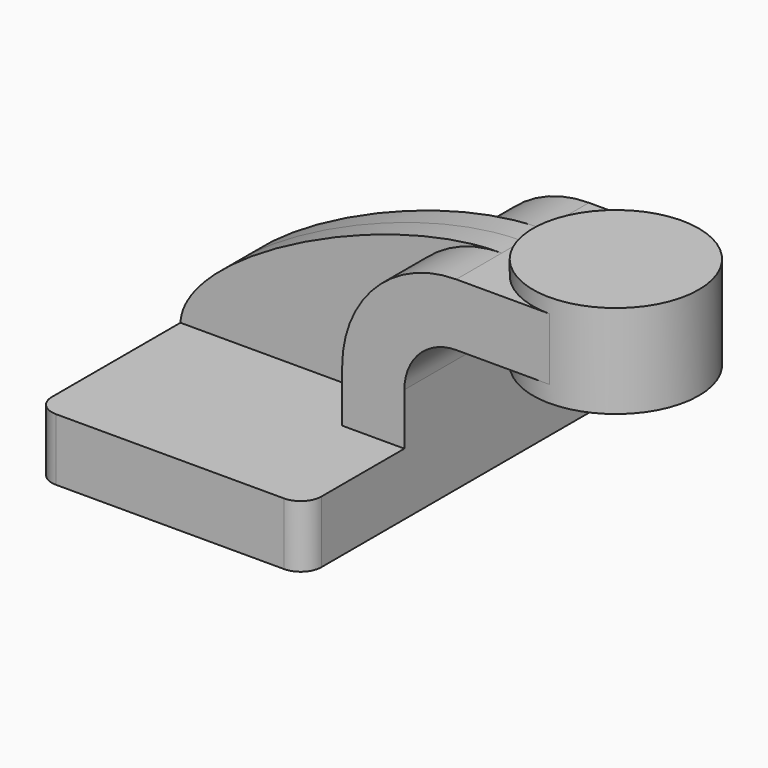
from build123d import *

# Parameters (mm, degrees)
F1_DEPTH = 63.5
F2_DEPTH = 25.4
F3_DEPTH = 7.9375
F0_W     = 25.4
F0_H     = 19.05
F4_DEPTH = 25.4
F6_R     = 6.35


with BuildPart() as f1:
    # F0 (on Front) → F1 (new body, symmetric)
    with BuildSketch(Plane.XZ):
        Polygon((-41.275, 9.525), (-41.275, -9.525), (41.275, -9.525), (41.275, 9.525), (22.225, 9.525), align=None)
    extrude(amount=F1_DEPTH, both=True)

    # F0 (on Front) → F2 (join, symmetric)
    with BuildSketch(Plane.XZ):
        with BuildLine():
            Line((22.225, 9.525), (41.275, 9.525))
            Line((41.275, 9.525), (41.275, 25.4))
            ThreePointArc((41.275, 25.4), (45.9246798487, 36.6253201513), (57.15, 41.275))
            Line((57.15, 41.275), (60.325, 41.275))
            Line((60.325, 41.275), (60.325, 60.325))
            Line((60.325, 60.325), (57.15, 60.325))
            ThreePointArc((57.15, 60.325), (32.4542956671, 50.0957043329), (22.225, 25.4))
            Line((22.225, 25.4), (22.225, 9.525))
        make_face()
    extrude(amount=F2_DEPTH, both=True)

    # F0 (on Front) → F3 (join, symmetric)
    with BuildSketch(Plane.XZ):
        with BuildLine():
            add(Edge.make_bspline(
                [(-41.275, 9.525), (-40.2447469532, 30.1753021777), (21.1324393749, 60.5111531913), (57.15, 60.325)],
                knots=[0, 0, 0, 0, 110.761548495, 110.761548495, 110.761548495, 110.761548495], degree=3))
            Line((-41.275, 9.525), (22.225, 9.525))
            Line((22.225, 9.525), (22.225, 25.4))
            ThreePointArc((22.225, 25.4), (32.4542956671, 50.0957043329), (57.15, 60.325))
        make_face()
    extrude(amount=F3_DEPTH, both=True)

    # F0 (on Front) → F4 (join, symmetric)
    with BuildSketch(Plane.XZ):
        with Locations((73.025, 50.8)):
            Rectangle(F0_W, F0_H)
    extrude(amount=F4_DEPTH, both=True)

    # F0 (on Front) → F5 (revolve)
    with BuildSketch(Plane.XZ):
        Polygon((85.725, 64.77), (85.725, 60.325), (85.725, 41.275), (85.725, 36.195), (111.125, 36.195), (111.125, 64.77), align=None)
    revolve(axis=Axis((85.725, 0, 50.8), (0, 0, -1)))

    # F6
    f6_edges = [f1.edges().sort_by_distance(p)[0] for p in [
        (41.275, -63.5, 0),
        (-41.275, -63.5, 0),
        (41.275, 63.5, 0),
        (-41.275, 63.5, 0),
    ]]
    fillet(f6_edges, radius=F6_R)


solid = f1.part
